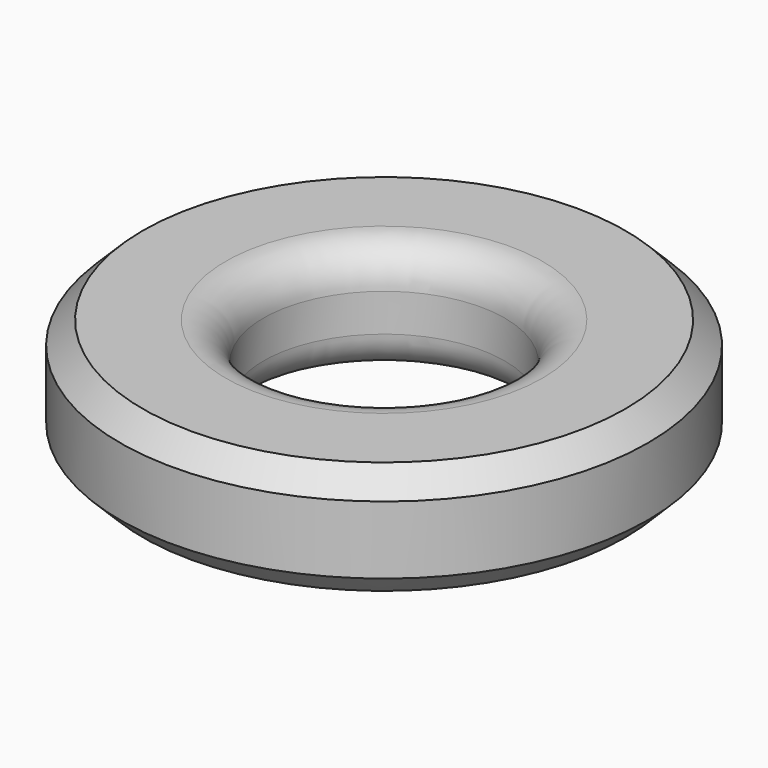
from build123d import *

# Parameters (mm, degrees)
F0_R     = 3.5
F0_R_2   = 1.6
F1_DEPTH = 1.5
F2_R     = 0.5
F3_SIZE  = 0.3


with BuildPart() as f1:
    # F0 (on Top) → F1 (new body)
    with BuildSketch(Plane.XY):
        Circle(F0_R)
        Circle(F0_R_2, mode=Mode.SUBTRACT)
    extrude(amount=F1_DEPTH)

    # F2
    f2_edges = [f1.edges().sort_by_distance(p)[0] for p in [
        (1.6, 0, 0.75),
        (-1.6, 0, 0),
        (-1.6, 0, 1.5),
    ]]
    fillet(f2_edges, radius=F2_R)

    # F3
    f3_edges = [f1.edges().sort_by_distance(p)[0] for p in [
        (3.5, 0, 0.75),
        (-3.5, 0, 0),
        (-3.5, 0, 1.5),
    ]]
    chamfer(f3_edges, length=F3_SIZE)


solid = f1.part
